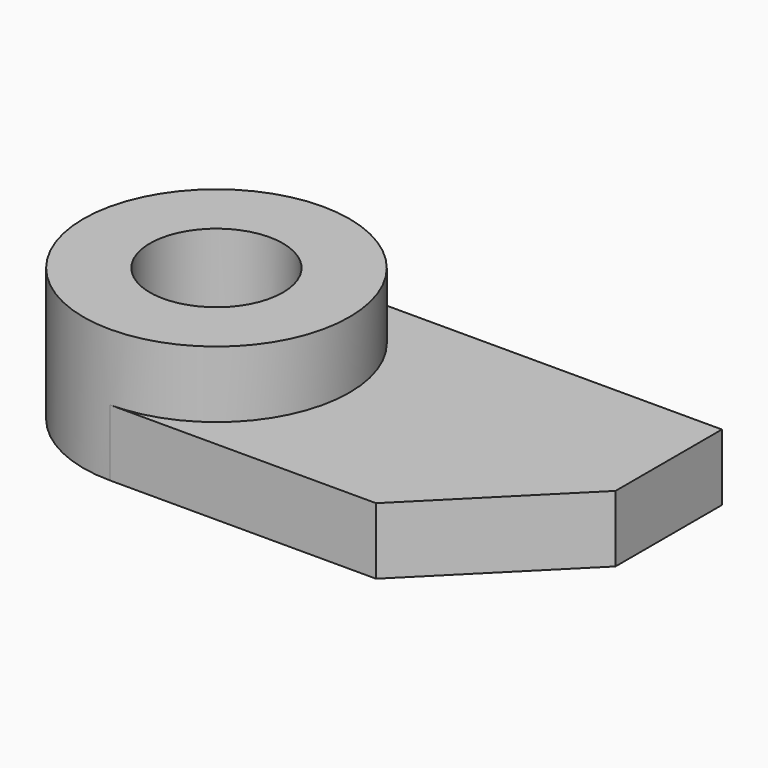
from build123d import *

# Parameters (mm, degrees)
F0_R     = 12.7
F0_R_2   = 6.35
F1_DEPTH = 6.35
F2_W     = 38.1
F2_H     = 25.4
F3_DEPTH = 6.35
F5_DEPTH = 6.351


with BuildPart() as f1:
    # F0 (on Top) → F1 (new body, symmetric)
    with BuildSketch(Plane.XY):
        Circle(F0_R)
        Circle(F0_R_2, mode=Mode.SUBTRACT)
    extrude(amount=F1_DEPTH, both=True)

    # F2 (on Top) → F3 (join)
    with BuildSketch(Plane.XY):
        with Locations((19.05, 0)):
            Rectangle(F2_W, F2_H)
    extrude(amount=-F3_DEPTH)

    # F4 (on face) → F5 (cut, through all)
    with BuildSketch(Plane.XY):
        Polygon((38.1, -12.7), (38.1, 0), (25.4, -12.7), align=None)
    extrude(amount=-F5_DEPTH, mode=Mode.SUBTRACT)


solid = f1.part
